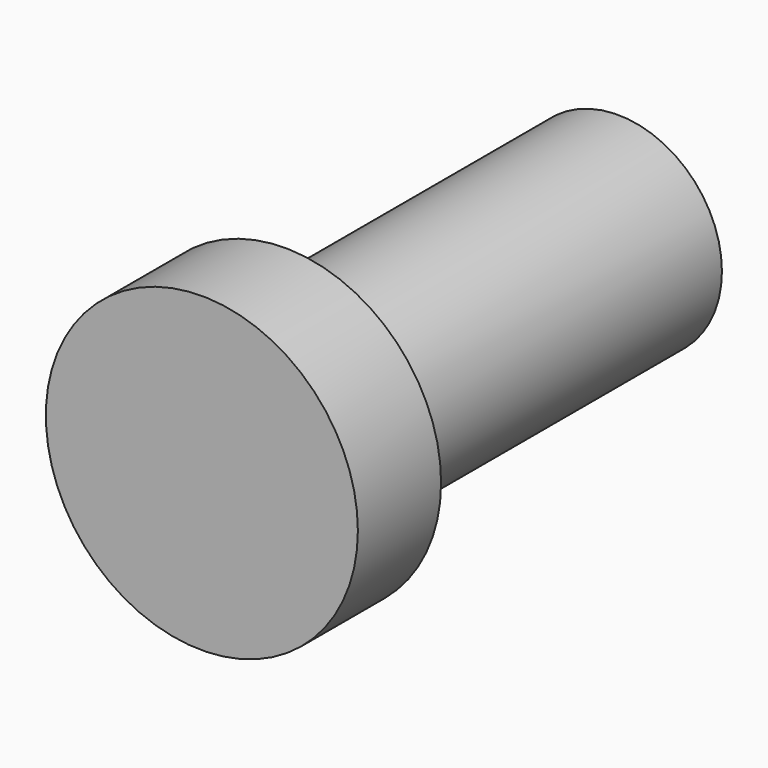
from build123d import *

# Parameters (mm, degrees)
F0_R     = 6.35
F1_DEPTH = 25.4
F2_R     = 4.7625
F3_DEPTH = 1.5875
F4_R     = 9.525
F5_DEPTH = 6.35


with BuildPart() as f1:
    # F0 (on Front) → F1 (new body)
    with BuildSketch(Plane.XZ):
        Circle(F0_R)
    extrude(amount=F1_DEPTH)

    # F2 (on face) → F3 (cut)
    with BuildSketch(Plane(origin=(0, 0, 0), x_dir=(-1, 0, 0), z_dir=(0, 1, 0))):
        Circle(F2_R)
    extrude(amount=-F3_DEPTH, mode=Mode.SUBTRACT)

    # F4 (on face) → F5 (join)
    with BuildSketch(Plane.XZ.offset(25.4)):
        Circle(F4_R)
    extrude(amount=F5_DEPTH)


solid = f1.part
